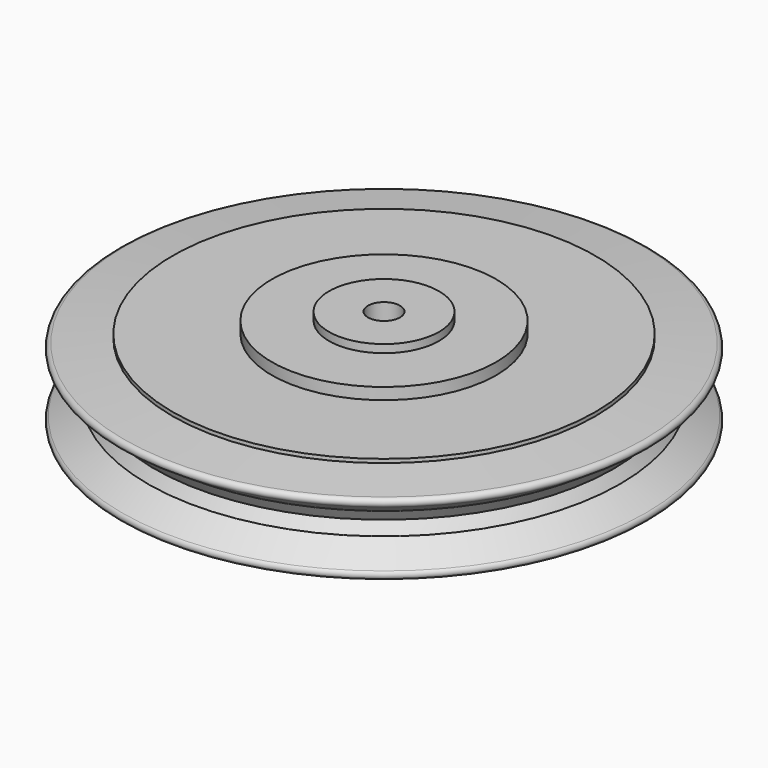
from build123d import *


with BuildPart() as f1:
    # F0 (on Front) → F1 (revolve)
    with BuildSketch(Plane.XZ):
        with BuildLine():
            Line((119.9262216687, -50.9453676641), (206.5908610821, -50.9453676641))
            Line((206.5908610821, -50.9453676641), (209.2918008566, -46.4251749218))
            Line((209.2918008566, -46.4251749218), (219.8045918999, -39.5420951213))
            ThreePointArc((219.8045918999, -39.5420951213), (220.5400323468, -37.6643055384), (219.0086470441, -36.3521220821))
            Line((219.0086470441, -36.3521220821), (199.2150555966, -34.5528559543))
            Line((199.2150555966, -34.5528559543), (199.2150555966, -33.0305807292))
            Line((199.2150555966, -33.0305807292), (158.9545607567, -33.0305807292))
            Line((158.9545607567, -33.0305807292), (158.9545607567, -28.323341161))
            Line((158.9545607567, -28.323341161), (135.7756108046, -28.323341161))
            Line((135.7756108046, -28.323341161), (135.7756108046, -25.0646919012))
            Line((135.7756108046, -25.0646919012), (119.9262216687, -25.0646919012))
            Line((119.9262216687, -25.0646919012), (119.9262216687, -50.9453676641))
        make_face()
    revolve(axis=Axis((113.4381368756, 0, -32.0306840586), (0, 0, -1)))

    # F2: F1 across face


with BuildPart() as f1_1:
    add(f1.part)
    add(f1.part.mirror(Plane(origin=(113.4381368756, 0, -50.9453676641), x_dir=(1, 0, 0), z_dir=(0, 0, -1))))


solid = f1_1.part
